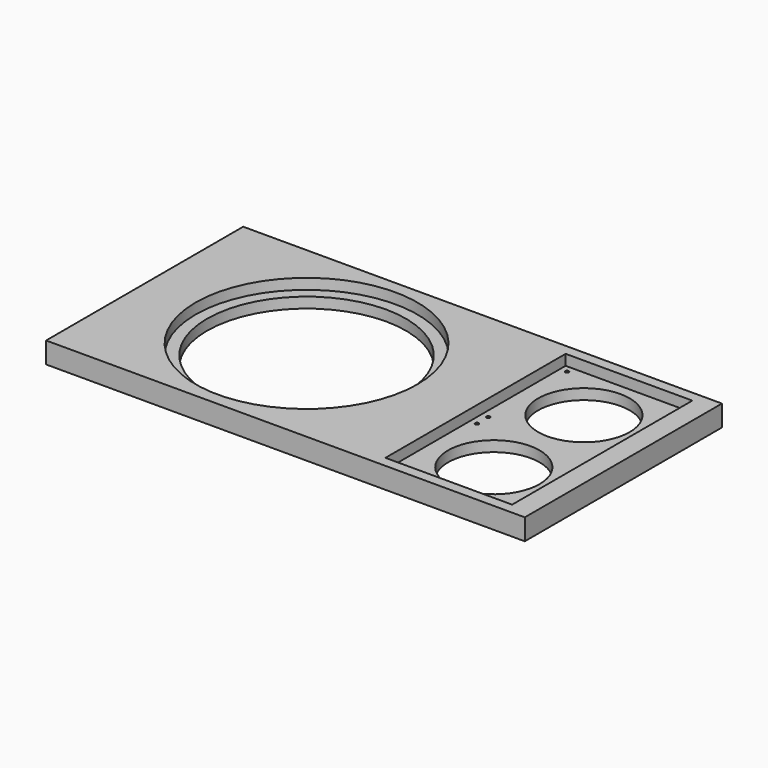
from build123d import *

# Parameters (mm, degrees)
F0_W     = 863.6
F0_H     = 444.5
F0_R     = 200.025
F0_W_2   = 228.6
F0_H_2   = 406.4
F1_DEPTH = 38.1
F0_R_2   = 179.3875
F0_R_3   = 3.175
F0_R_4   = 82.55
F2_DEPTH = 19.05


with BuildPart() as f1:
    # F0 (on Top) → F1 (new body)
    with BuildSketch(Plane.XY):
        with Locations((431.8, 222.25)):
            Rectangle(F0_W, F0_H)
        with Locations((292.1, 222.25)):
            Circle(F0_R, mode=Mode.SUBTRACT)
        with Locations((711.2, 222.25)):
            Rectangle(F0_W_2, F0_H_2, mode=Mode.SUBTRACT)
    extrude(amount=F1_DEPTH)

    # F0 (on Top) → F2 (join)
    with BuildSketch(Plane.XY):
        with Locations((292.1, 222.25)):
            Circle(F0_R)
        with Locations((292.1, 222.25)):
            Circle(F0_R_2, mode=Mode.SUBTRACT)
        with Locations((711.2, 222.25)):
            Rectangle(F0_W_2, F0_H_2)
        with Locations((609.6, 31.75)):
            Circle(F0_R_3, mode=Mode.SUBTRACT)
        with Locations((812.8, 31.75)):
            Circle(F0_R_3, mode=Mode.SUBTRACT)
        with Locations((609.6, 209.55)):
            Circle(F0_R_3, mode=Mode.SUBTRACT)
        with Locations((711.2, 120.65)):
            Circle(F0_R_4, mode=Mode.SUBTRACT)
        with Locations((812.8, 209.55)):
            Circle(F0_R_3, mode=Mode.SUBTRACT)
        with Locations((609.6, 234.95)):
            Circle(F0_R_3, mode=Mode.SUBTRACT)
        with Locations((812.8, 234.95)):
            Circle(F0_R_3, mode=Mode.SUBTRACT)
        with Locations((711.2, 323.85)):
            Circle(F0_R_4, mode=Mode.SUBTRACT)
        with Locations((609.6, 412.75)):
            Circle(F0_R_3, mode=Mode.SUBTRACT)
        with Locations((812.8, 412.75)):
            Circle(F0_R_3, mode=Mode.SUBTRACT)
    extrude(amount=F2_DEPTH)


solid = f1.part
